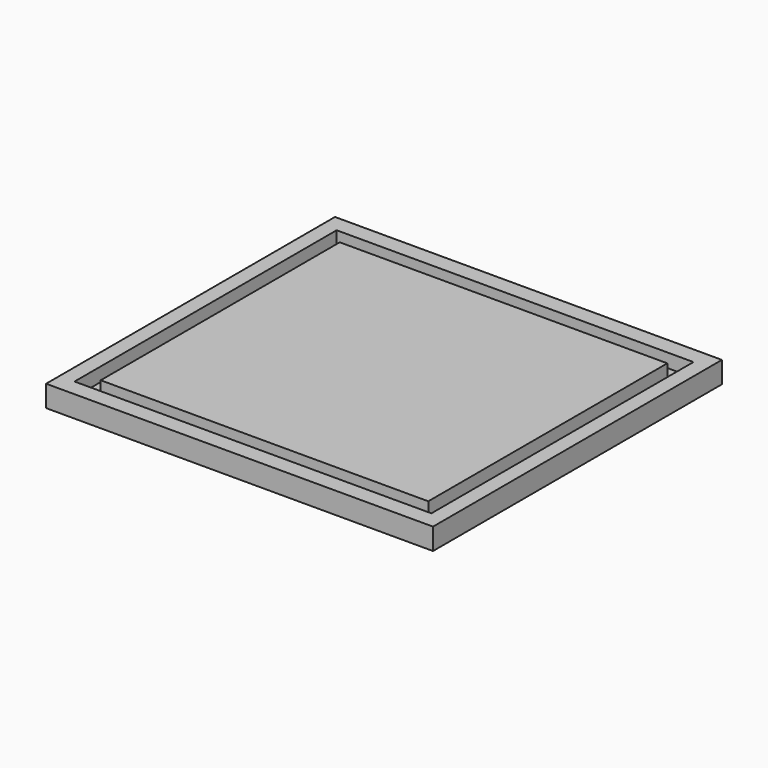
from build123d import *

# Parameters (mm, degrees)
F0_W     = 90
F0_H     = 84
F1_DEPTH = 5
F2_W     = 83
F2_H     = 76.2
F2_W_2   = 76.2
F2_H_2   = 69.5
F3_DEPTH = 3.2


with BuildPart() as f1:
    # F0 (on Top) → F1 (new body)
    with BuildSketch(Plane.XY):
        Rectangle(F0_W, F0_H)
    extrude(amount=F1_DEPTH)

    # F2 (on face) → F3 (cut)
    with BuildSketch(Plane.XY.offset(5)):
        Rectangle(F2_W, F2_H)
        Rectangle(F2_W_2, F2_H_2, mode=Mode.SUBTRACT)
    extrude(amount=-F3_DEPTH, mode=Mode.SUBTRACT)


solid = f1.part
